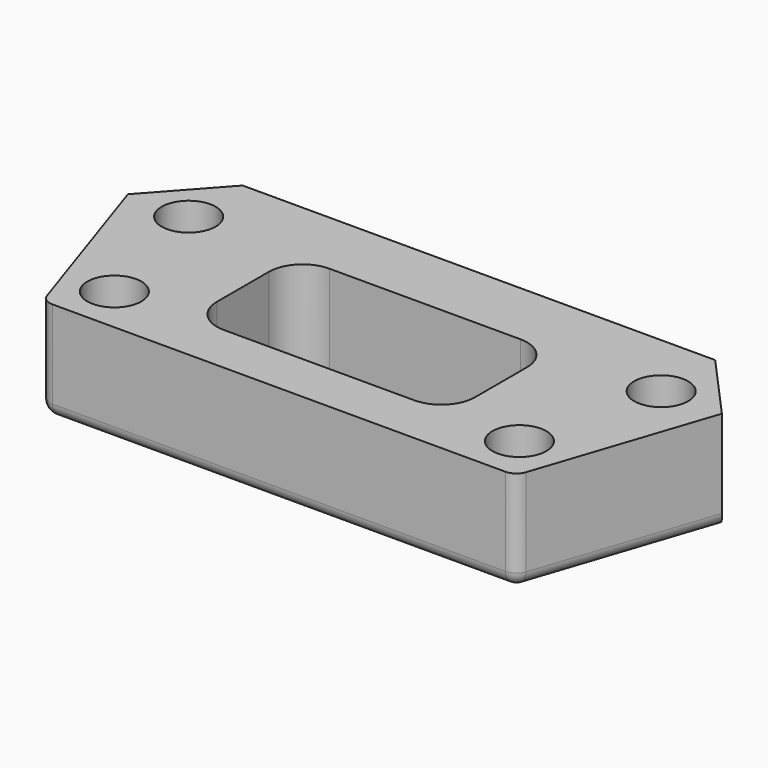
from build123d import *

# Parameters (mm, degrees)
F0_R     = 4
F1_DEPTH = 5
F2_DEPTH = 15
F4_R     = 2
F6_DEPTH = 25


with BuildPart() as f1:
    # F0 (on Top) → F1 (new body)
    with BuildSketch(Plane.XY):
        with Locations((-35, 0)):
            Circle(F0_R)
    extrude(amount=F1_DEPTH)


with BuildPart() as f1b:
    # F0 (on Top) → F1, piece 2 (new body)
    with BuildSketch(Plane.XY):
        with Locations((-30, -20)):
            Circle(F0_R)
    extrude(amount=F1_DEPTH)


with BuildPart() as f2:
    # F0 (on Top) → F2 (new body)
    with BuildSketch(Plane.XY):
        Polygon((0, 10), (-35, 10), (-44, 0), (-35, -27), (-22, -27), (0, -27), (0, 0), align=None)
        with Locations((-30, -20)):
            Circle(F0_R, mode=Mode.SUBTRACT)
        with Locations((-35, 0)):
            Circle(F0_R, mode=Mode.SUBTRACT)
    extrude(amount=F2_DEPTH)

    # F3: F2, F1, F1b across plane


with BuildPart() as f2_1:
    add(f2.part)
    add(f2.part.mirror(Plane.YZ))
    add(f1.part.mirror(Plane.YZ))
    add(f1b.part.mirror(Plane.YZ))

    # F4
    f4_edges = [f2_1.edges().sort_by_distance(p)[0] for p in [
        (0, -27, 0),
        (-39.5, -13.5, 0),
        (39.5, -13.5, 0),
        (-35, -27, 7.5),
        (35, -27, 7.5),
    ]]
    fillet(f4_edges, radius=F4_R)

    # F5 (on face) → F6 (cut)
    with BuildSketch(Plane.XY.offset(15)):
        with BuildLine():
            Line((14.1275198013, 0), (-14.1275198013, 0))
            ThreePointArc((-14.1275198013, 0), (-17.6630537072, -1.4644660941), (-19.1275198013, -5))
            Line((-19.1275198013, -5), (-19.1275198013, -14.6178462356))
            ThreePointArc((-19.1275198013, -14.6178462356), (-17.6630537072, -18.1533801416), (-14.1275198013, -19.6178462356))
            Line((-14.1275198013, -19.6178462356), (14.1275198013, -19.6178462356))
            ThreePointArc((14.1275198013, -19.6178462356), (17.6630537072, -18.1533801416), (19.1275198013, -14.6178462356))
            Line((19.1275198013, -14.6178462356), (19.1275198013, -5))
            ThreePointArc((19.1275198013, -5), (17.6630537072, -1.4644660941), (14.1275198013, 0))
        make_face()
    extrude(amount=-F6_DEPTH, mode=Mode.SUBTRACT)


solid = Compound([f1.part, f1b.part, f2_1.part])
